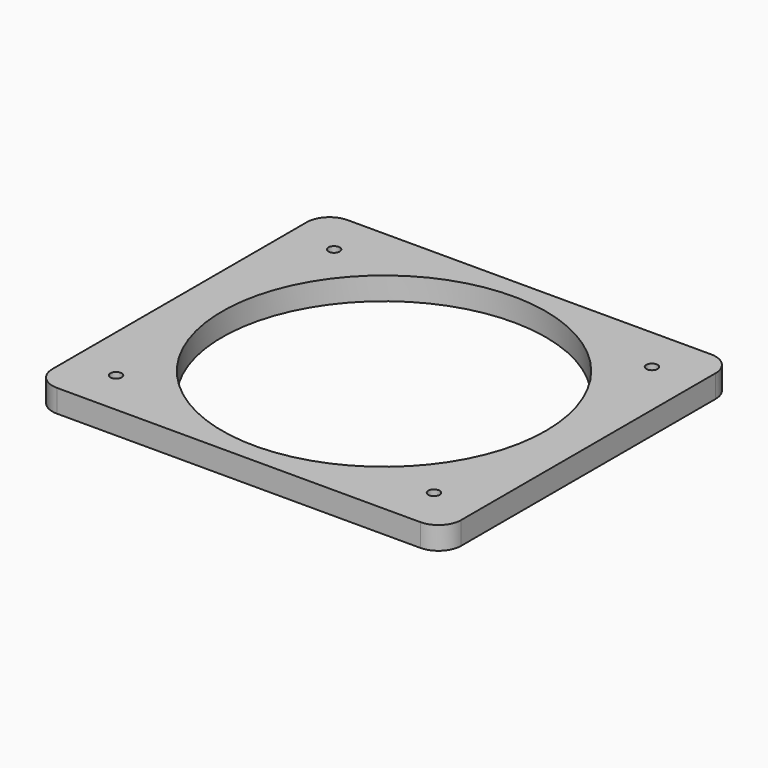
from build123d import *

# Parameters (mm, degrees)
F1_DEPTH = 12.7
F2_R     = 90.4875
F3_DEPTH = 12.7
F5_D     = 6.35


with BuildPart() as f1:
    # F0 (on Top) → F1 (new body)
    with BuildSketch(Plane.XY):
        with BuildLine():
            Line((101.6, 101.6), (-101.6, 101.6))
            ThreePointArc((-101.6, 101.6), (-110.580256, 97.880256), (-114.3, 88.9))
            Line((-114.3, 88.9), (-114.3, -88.9))
            ThreePointArc((-114.3, -88.9), (-110.580256, -97.880256), (-101.6, -101.6))
            Line((-101.6, -101.6), (101.6, -101.6))
            ThreePointArc((101.6, -101.6), (110.580256, -97.880256), (114.3, -88.9))
            Line((114.3, -88.9), (114.3, 88.9))
            ThreePointArc((114.3, 88.9), (110.580256, 97.880256), (101.6, 101.6))
        make_face()
    extrude(amount=F1_DEPTH)

    # F2 (on face) → F3 (cut)
    with BuildSketch(Plane.XY.offset(12.7)):
        Circle(F2_R)
    extrude(amount=-F3_DEPTH, mode=Mode.SUBTRACT)

    # F5 (through all)
    with Locations(Plane.XY.offset(12.7)):
        with Locations((-88.9, 76.2), (88.9, 76.2), (88.9, -76.2), (-88.9, -76.2)):
            Hole(F5_D / 2)


solid = f1.part
